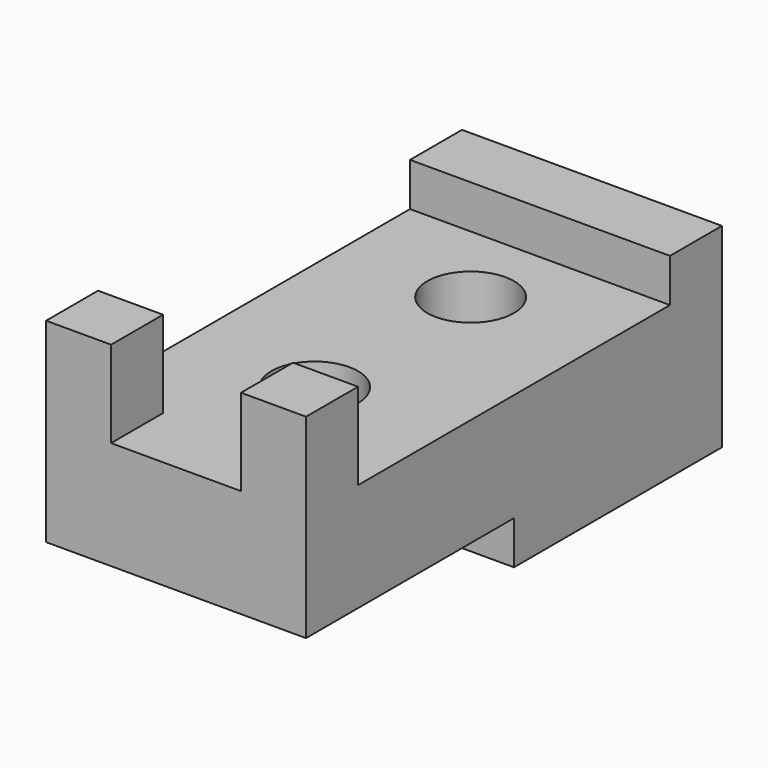
from build123d import *

# Parameters (mm, degrees)
F0_W      = 60
F0_H      = 120
F1_DEPTH  = 35
F2_W      = 60
F2_H      = 15
F3_DEPTH  = 10
F4_W      = 60
F4_H      = 60
F5_DEPTH  = 10
F6_W      = 15
F6_H      = 15
F7_DEPTH  = 20
F8_W      = 15
F8_H      = 15
F9_DEPTH  = 20
F10_R     = 10
F11_DEPTH = 72.9
F12_R     = 10
F13_DEPTH = 66.7


with BuildPart() as f1:
    # F0 (on Top) → F1 (new body)
    with BuildSketch(Plane.XY):
        Rectangle(F0_W, F0_H)
    extrude(amount=F1_DEPTH)

    # F2 (on face) → F3 (join)
    with BuildSketch(Plane.XY.offset(35)):
        with Locations((0, 52.5)):
            Rectangle(F2_W, F2_H)
    extrude(amount=F3_DEPTH)

    # F4 (on face) → F5 (cut)
    with BuildSketch(Plane(origin=(0, 0, 0), x_dir=(1, 0, 0), z_dir=(0, 0, -1))):
        with Locations((0, 30)):
            Rectangle(F4_W, F4_H)
    extrude(amount=-F5_DEPTH, mode=Mode.SUBTRACT)

    # F6 (on face) → F7 (join)
    with BuildSketch(Plane.XY.offset(35)):
        with Locations((-22.5, -52.5)):
            Rectangle(F6_W, F6_H)
    extrude(amount=F7_DEPTH)

    # F8 (on face) → F9 (join)
    with BuildSketch(Plane.XY.offset(35)):
        with Locations((22.5, -52.5)):
            Rectangle(F8_W, F8_H)
    extrude(amount=F9_DEPTH)

    # F10 (on face) → F11 (cut)
    with BuildSketch(Plane.XY.offset(35)):
        with Locations((0, 25)):
            Circle(F10_R)
    extrude(amount=-F11_DEPTH, mode=Mode.SUBTRACT)

    # F12 (on face) → F13 (cut)
    with BuildSketch(Plane.XY.offset(35)):
        with Locations((0, -20)):
            Circle(F12_R)
    extrude(amount=-F13_DEPTH, mode=Mode.SUBTRACT)


solid = f1.part
